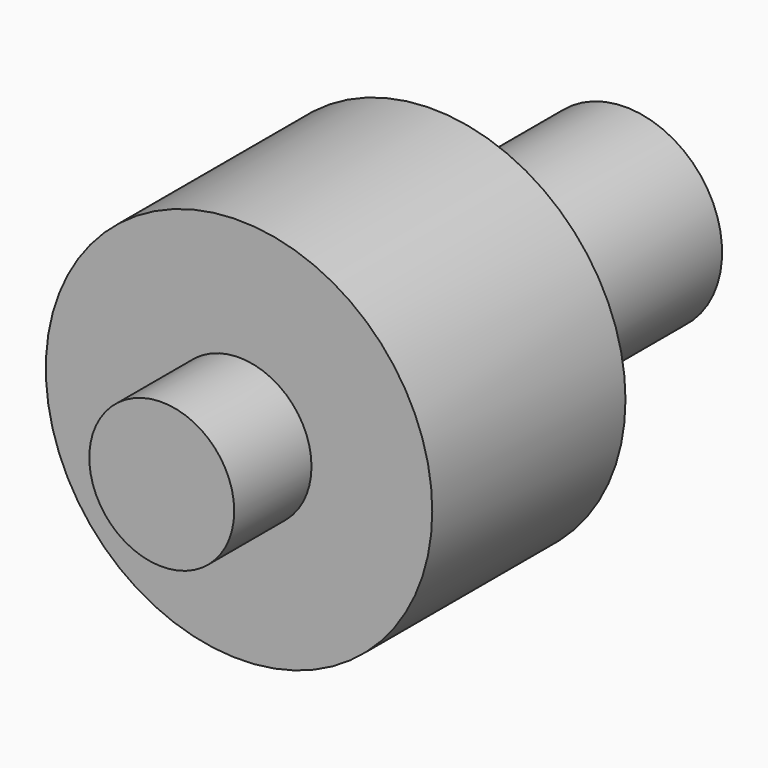
from build123d import *

# Parameters (mm, degrees)
F0_R     = 8
F1_DEPTH = 24
F2_R     = 12.156752
F2_R_2   = 3
F3_DEPTH = 4
F4_R     = 10.910095
F4_R_2   = 4
F5_DEPTH = 10


with BuildPart() as f1:
    # F0 (on Front) → F1 (new body)
    with BuildSketch(Plane.XZ):
        Circle(F0_R)
    extrude(amount=-F1_DEPTH)

    # F2 (on face) → F3 (cut)
    with BuildSketch(Plane.XZ):
        Circle(F2_R)
        Circle(F2_R_2, mode=Mode.SUBTRACT)
    extrude(amount=-F3_DEPTH, mode=Mode.SUBTRACT)

    # F4 (on face) → F5 (cut)
    with BuildSketch(Plane(origin=(0, 24, 0), x_dir=(-1, 0, 0), z_dir=(0, 1, 0))):
        Circle(F4_R)
        Circle(F4_R_2, mode=Mode.SUBTRACT)
    extrude(amount=-F5_DEPTH, mode=Mode.SUBTRACT)


solid = f1.part
